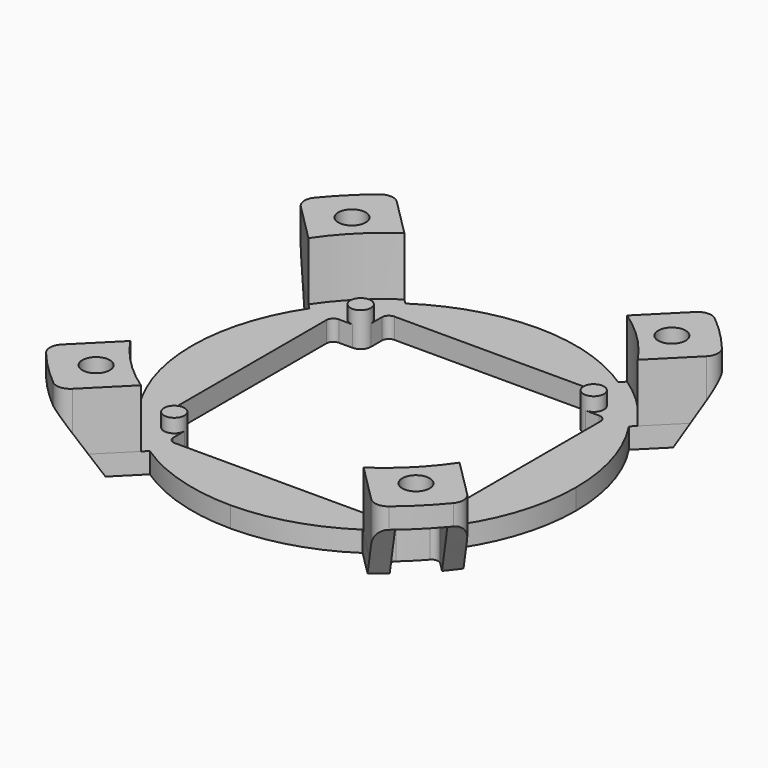
from build123d import *

# Parameters (mm, degrees)
PAD_DEPTH          = 3
POCKET_DEPTH       = 3.001
FILLET_R           = 1.5
PAD001_DEPTH       = 8.5
SKETCH004_R        = 2
POCKET001_DEPTH    = 11.501
POCKET002_DEPTH    = 8.5
SKETCH007_R        = 1.5
PAD002_DEPTH       = 2
FILLET001_R        = 1
FILLET002_R        = 2
POLARPATTERN_COUNT = 4


with BuildPart() as part:
    # Sketch → Pad (new body)
    with BuildSketch(Plane.XY):
        with BuildLine():
            Line((0, 0), (28, 0))
            ThreePointArc((23.302356, -15.524181), (26.799869, -8.109687), (28, 0))
            Line((23.302356, -15.524181), (30.833474, -23.0553))
            ThreePointArc((23.0553, -30.833474), (27.223611, -27.223611), (30.833474, -23.0553))
            Line((23.0553, -30.833474), (15.524181, -23.302356))
            ThreePointArc((0, -28), (8.109687, -26.799869), (15.524181, -23.302356))
            Line((0, -28), (0, 0))
        make_face()
    extrude(amount=PAD_DEPTH)

    # Sketch002 (on Face9 of Pad) → Pocket (cut, through all)
    with BuildSketch(Plane.XY.offset(3)):
        Polygon((0, 0), (0, -20), (15.5, -20), (15.5, -15.5), (20, -15.5), (20, 0), align=None)
    extrude(amount=-POCKET_DEPTH, mode=Mode.SUBTRACT)

    # Fillet
    fillet_edges = [part.edges().sort_by_distance(p)[0] for p in [
        (15.5, -15.5, 1.5),
    ]]
    fillet(fillet_edges, radius=FILLET_R)

    # Sketch003 (on Face14 of Fillet) → Pad001 (join)
    with BuildSketch(Plane.XY.offset(3)):
        with BuildLine():
            Line((16.244839, -24.023014), (23.0553, -30.833474))
            ThreePointArc((23.0553, -30.833474), (27.223611, -27.223611), (30.833474, -23.0553))
            Line((30.833474, -23.0553), (24.023014, -16.244839))
            ThreePointArc((16.244839, -24.023014), (20.506097, -20.506097), (24.023014, -16.244839))
        make_face()
    extrude(amount=PAD001_DEPTH)

    # Sketch004 (on Face13 of Pad001) → Pocket001 (cut, through all)
    with BuildSketch(Plane.XY.offset(11.5)):
        with Locations((23.334524, -23.334524)):
            Circle(SKETCH004_R)
    extrude(amount=-POCKET001_DEPTH, mode=Mode.SUBTRACT)

    # Sketch005 (on Face1 of Pocket001) → Pocket002 (cut)
    with BuildSketch(Plane(origin=(0, 0, 0), x_dir=(1, 0, 0), z_dir=(0, 0, -1))):
        with BuildLine():
            ThreePointArc((29.262157, 25.019516), (27.223611, 27.223611), (25.019516, 29.262157))
            Line((25.019516, 29.262157), (18.985551, 23.228191))
            ThreePointArc((23.228191, 18.985551), (21.213203, 21.213203), (18.985551, 23.228191))
            Line((23.228191, 18.985551), (29.262157, 25.019516))
        make_face()
    extrude(amount=-POCKET002_DEPTH, mode=Mode.SUBTRACT)

    # Sketch006 → Groove (revolve, cut)
    with BuildSketch(Plane.YZ):
        Polygon((-38.5, 0), (-38.5, 8.5), (-33, 0), align=None)
    revolve(axis=Axis((0, 0, 0), (0, 0, 1)), mode=Mode.SUBTRACT)

    # Sketch007 (on Face18 of Groove) → Pad002 (join)
    with BuildSketch(Plane.XY.offset(3)):
        with Locations((17, -17)):
            Circle(SKETCH007_R)
    extrude(amount=PAD002_DEPTH)

    # Fillet001
    fillet001_edges = [part.edges().sort_by_distance(p)[0] for p in [
        (20, -15.5, 1.5),
        (15.5, -20, 1.5),
        (18.985551, -23.228191, 4.25),
        (23.228191, -18.985551, 4.25),
    ]]
    fillet(fillet001_edges, radius=FILLET001_R)

    # Fillet002
    fillet002_edges = [part.edges().sort_by_distance(p)[0] for p in [
        (30.833474, -23.0553, 10),
        (23.0553, -30.833474, 10),
    ]]
    fillet(fillet002_edges, radius=FILLET002_R)

    # PolarPattern: part ×4 about axis
    polarpattern_axis = Axis((0, 0, 0), (0, 0, 1))


with BuildPart() as part_1:
    add(part.part)
    for i in range(1, POLARPATTERN_COUNT):
        add(part.part.rotate(polarpattern_axis, i * 360 / POLARPATTERN_COUNT))


solid = part_1.part
